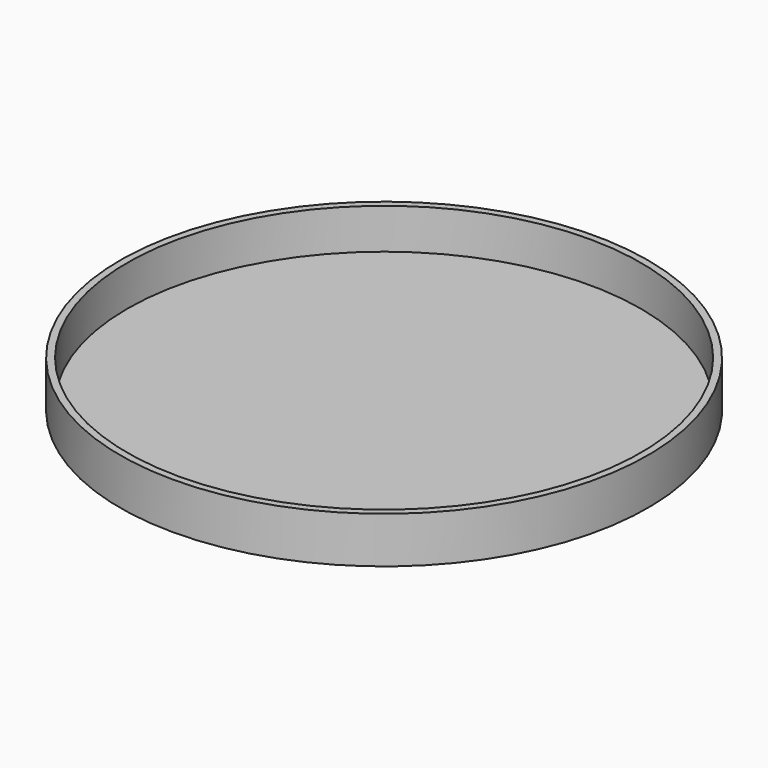
from build123d import *

# Parameters (mm, degrees)
F0_R     = 85
F1_DEPTH = 2
F2_W     = 2.3153945804
F2_H     = 15.3396707028


with BuildPart() as f1:
    # F0 (on Top) → F1 (new body)
    with BuildSketch(Plane.XY):
        Circle(F0_R)
    extrude(amount=F1_DEPTH)


with BuildPart() as f3:
    # F3: sweep along a path in F3_path
    with BuildLine(Plane(origin=(85, 0, 2), x_dir=(0, -1, 0), z_dir=(0, 0, -1))) as f3_path:
        CenterArc((0, 85), 85, 0, 360)
    # F2 (on Right) → F3 (sweep)
    with BuildSketch(Plane.YZ):
        with Locations((-86.2245298922, 7.6698353514)):
            Rectangle(F2_W, F2_H)
    sweep(path=f3_path.line)


solid = Compound([f1.part, f3.part])
